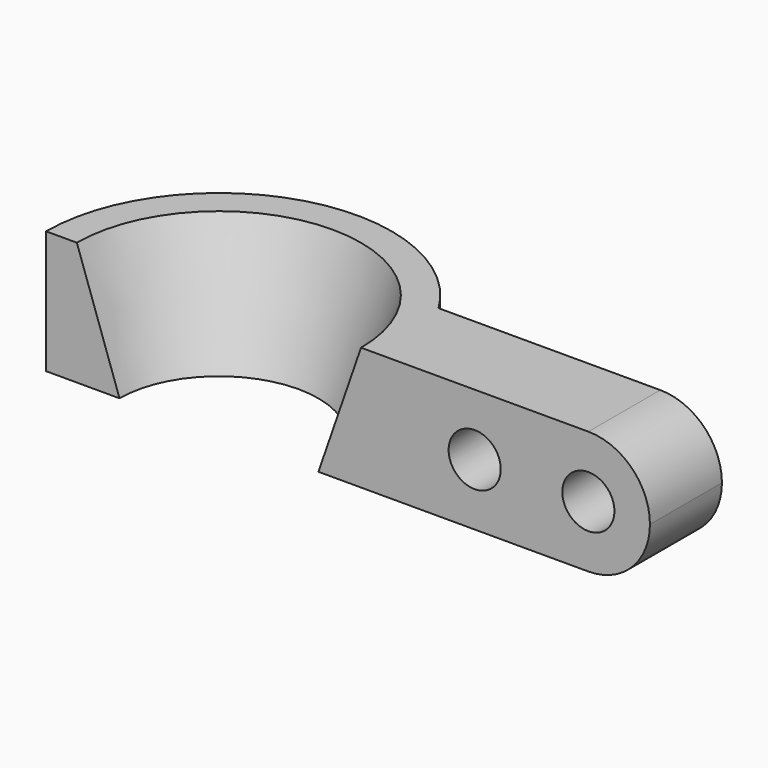
from build123d import *

# Parameters (mm, degrees)
F1_ANGLE = 180
F2_R     = 11
F3_DEPTH = 38


with BuildPart() as f1:
    # F0 (on Front) → F1 (revolve)
    with BuildSketch(Plane.XZ):
        Polygon((-60, 0), (-73, 0), (-73, -52), (-42, -52), align=None)
    revolve(axis=Axis((0, 0, -6.10794), (0, 0, -1)), revolution_arc=F1_ANGLE)

    # F2 (on Front) → F3 (join)
    with BuildSketch(Plane.XZ):
        with BuildLine():
            Line((73, 0), (60, 0))
            Line((60, 0), (60, -52))
            Line((60, -52), (73, -52))
            Line((73, -52), (156, -52))
            ThreePointArc((156, -52), (174.384776, -44.384776), (182, -26))
            ThreePointArc((182, -26), (174.384776, -7.615224), (156, 0))
            Line((156, 0), (73, 0))
        make_face()
        with Locations((108, -26)):
            Circle(F2_R, mode=Mode.SUBTRACT)
        with Locations((156, -26)):
            Circle(F2_R, mode=Mode.SUBTRACT)
    extrude(amount=-F3_DEPTH)


solid = f1.part
